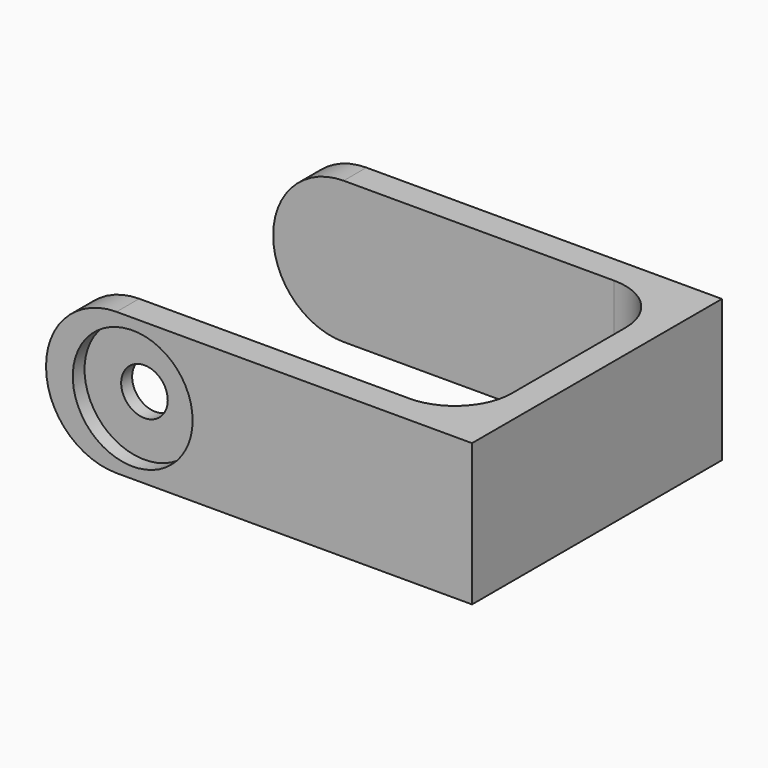
from build123d import *

# Parameters (mm, degrees)
CYLINDER018_R          = 4.1
CYLINDER018_DEPTH      = 10
CYLINDER018_ROLL_ANGLE = 90
CYLINDER016_R          = 10.55
CYLINDER016_DEPTH      = 10
CYLINDER016_ROLL_ANGLE = 90
PAD005_DEPTH           = 25
FILLET008_R            = 12.4


with BuildPart() as cilindro018:
    # Cylinder018 → Cylinder018 (new body)
    with BuildSketch(Plane.XY):
        Circle(CYLINDER018_R)
    extrude(amount=CYLINDER018_DEPTH)


with BuildPart() as cilindro018_1:
    # Cylinder018 roll: moved
    add(cilindro018.part.rotate(Axis((0, 0, 0), (1, 0, 0)), CYLINDER018_ROLL_ANGLE))


with BuildPart() as cilindro018_2:
    # Cylinder018 placement: moved
    add(cilindro018_1.part.moved(Location((0, -14, 0))))


with BuildPart() as obj1:
    # Cylinder016 → Cylinder016 (new body)
    with BuildSketch(Plane.XY):
        Circle(CYLINDER016_R)
    extrude(amount=CYLINDER016_DEPTH)


with BuildPart() as obj1_1:
    # Cylinder016 roll: moved
    add(obj1.part.rotate(Axis((0, 0, 0), (1, 0, 0)), CYLINDER016_ROLL_ANGLE))


with BuildPart() as obj1_2:
    # Cylinder016 placement: moved
    add(obj1_1.part.moved(Location((0, -22.5, 0))))

    # Fusion002: union Cilindro018
    add(cilindro018_2.part)


with BuildPart() as cut023004:
    # Sketch005 → Pad005 (new body)
    with BuildSketch(Plane(origin=(0, 0, 12.5), x_dir=(-1, 0, 0), z_dir=(0, 0, -1))):
        with BuildLine():
            Line((-59.749396, 29.9083), (-59.749396, -25.0917))
            Line((-59.749396, -25.0917), (15.250604, -25.0917))
            Line((15.250604, -25.0917), (15.250604, -20.0917))
            Line((15.250604, -20.0917), (-44.749396, -20.0917))
            ThreePointArc((-54.749396, -10.0917), (-51.820464, -17.162768), (-44.749396, -20.0917))
            Line((-54.749396, -10.0917), (-54.749396, 14.9083))
            ThreePointArc((-44.749396, 24.9083), (-51.820464, 21.979368), (-54.749396, 14.9083))
            Line((-44.749396, 24.9083), (15.250604, 24.9083))
            Line((15.250604, 24.9083), (15.250604, 29.9083))
            Line((15.250604, 29.9083), (-59.749396, 29.9083))
        make_face()
    extrude(amount=PAD005_DEPTH)

    # Fillet008
    fillet008_edges = [cut023004.edges().sort_by_distance(p)[0] for p in [
        (-15.250604, 27.4083, 12.5),
        (-15.250604, 27.4083, -12.5),
        (-15.250604, -22.5917, 12.5),
        (-15.250604, -22.5917, -12.5),
    ]]
    fillet(fillet008_edges, radius=FILLET008_R)

    # Cut023004: cut obj1
    add(obj1_2.part, mode=Mode.SUBTRACT)


solid = cut023004.part
